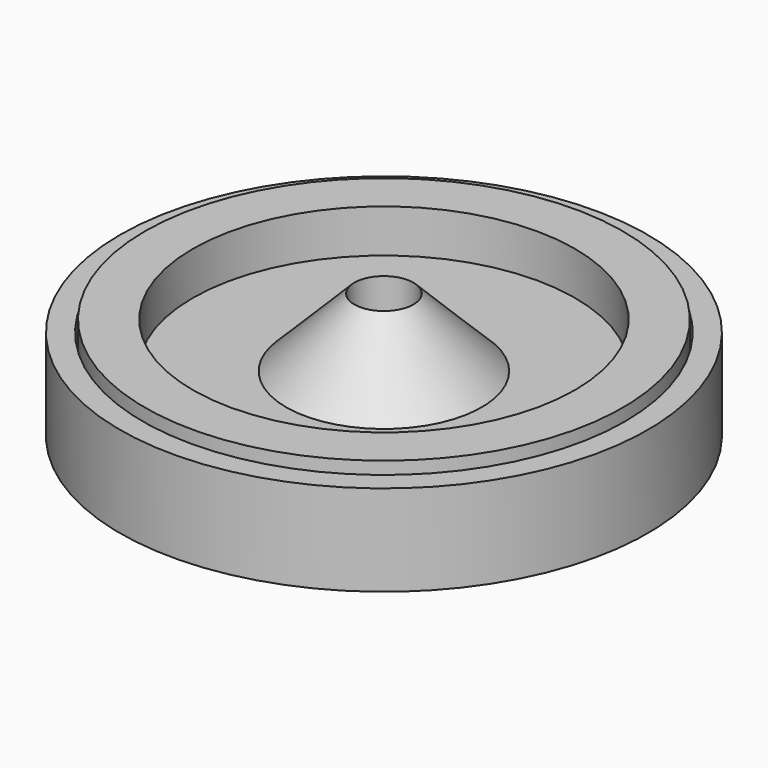
from build123d import *


with BuildPart() as f1:
    # F0 (on Front) → F1 (revolve)
    with BuildSketch(Plane.XZ):
        with BuildLine():
            Line((-23.2, 0), (-6.35, 0))
            Line((-6.35, 0), (-6.35, 5))
            Line((-6.35, 5), (-2.6, 5))
            Line((-2.6, 5), (-2.6, 11))
            Line((-2.6, 11), (-8.6, 5))
            Line((-8.6, 5), (-17.637331, 5))
            ThreePointArc((-17.637331, 5), (-17.92478, 4.909112), (-18.107727, 4.669492))
            ThreePointArc((-18.107727, 4.669492), (-19.025, 4.025), (-19.942273, 4.669492))
            ThreePointArc((-19.942273, 4.669492), (-20.12522, 4.909112), (-20.412669, 5))
            Line((-20.412669, 5), (-21.2, 5))
            Line((-21.2, 5), (-21.2, 8))
            Line((-21.2, 8), (-23.2, 8))
            Line((-23.2, 8), (-23.2, 0))
        make_face()
        with BuildLine():
            Line((-23.2, 0), (-6.35, 0))
            Line((-6.35, 0), (-6.35, 5))
            Line((-6.35, 5), (-2.6, 5))
            Line((-2.6, 5), (-2.6, 11))
            Line((-2.6, 11), (-8.6, 5))
            Line((-8.6, 5), (-17.637331, 5))
            ThreePointArc((-17.637331, 5), (-17.92478, 4.909112), (-18.107727, 4.669492))
            ThreePointArc((-18.107727, 4.669492), (-19.025, 4.025), (-19.942273, 4.669492))
            ThreePointArc((-19.942273, 4.669492), (-20.12522, 4.909112), (-20.412669, 5))
            Line((-20.412669, 5), (-21.2, 5))
            Line((-21.2, 5), (-21.2, 8))
            Line((-21.2, 8), (-23.2, 8))
            Line((-23.2, 8), (-23.2, 0))
        make_face()
        with BuildLine():
            ThreePointArc((-19.883209, 5.462712), (-19.025, 5.975), (-18.166791, 5.462712))
            ThreePointArc((-18.166791, 5.462712), (-17.982961, 5.270673), (-17.726684, 5.2))
            Line((-17.726684, 5.2), (-16.8, 5.2))
            Line((-16.8, 5.2), (-16.8, 9))
            Line((-16.8, 9), (-21, 9))
            Line((-21, 9), (-21, 5.2))
            Line((-21, 5.2), (-20.323316, 5.2))
            ThreePointArc((-20.323316, 5.2), (-20.067039, 5.270673), (-19.883209, 5.462712))
        make_face()
    revolve(axis=Axis((0, 0, 8.914324), (0, 0, 1)))


solid = f1.part
